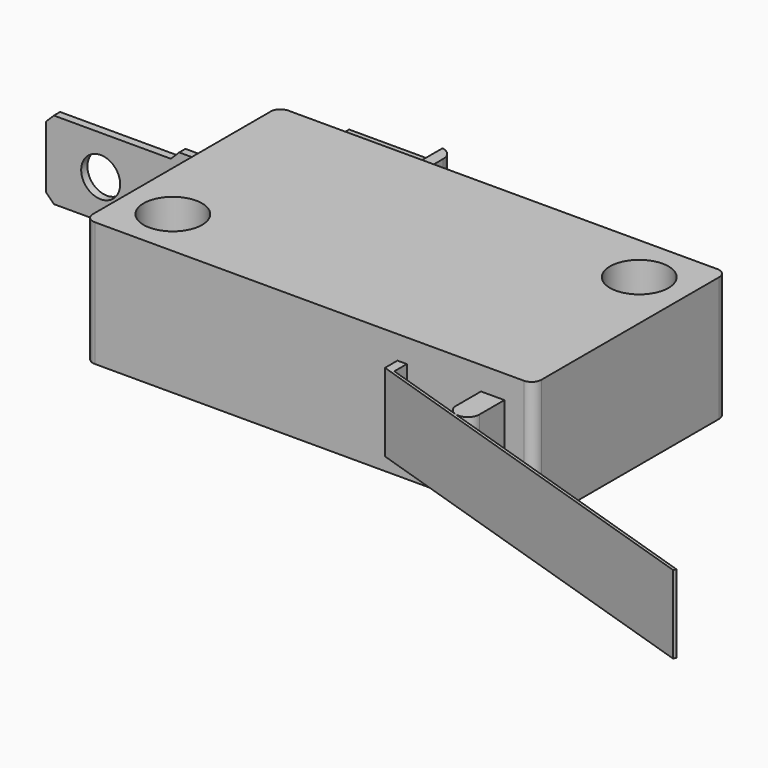
from build123d import *

# Parameters (mm, degrees)
F0_R      = 3.75
F1_DEPTH  = 16
F3_START  = -20
F2_R      = 2.5
F3_DEPTH  = 1
F4_SIZE   = 1
F5_SIZE   = 1
F6_W      = 1.5
F6_H      = 12.4
F7_DEPTH  = 5
F8_W      = 12.5
F8_H      = 8.8
F8_R      = 2.5
F9_DEPTH  = 1
F10_R     = 1.8
F11_SIZE  = 1
F12_SIZE  = 1.5
F14_START = -3
F14_DEPTH = 10
F13_W     = 1.2
F13_H     = 2


with BuildPart() as f1:
    # F0 (on Top) → F1 (new body)
    with BuildSketch(Plane.XY):
        with BuildLine():
            ThreePointArc((2.5, -1.25), (2.1338834765, -0.3661165235), (1.25, 0))
            ThreePointArc((1.25, 0), (0.3661165235, -0.3661165235), (0, -1.25))
            ThreePointArc((0, -1.25), (1.25, -2.5), (2.5, -1.25))
        make_face()
        with BuildLine():
            ThreePointArc((2.5, -29.75), (1.25, -28.5), (0, -29.75))
            ThreePointArc((0, -29.75), (0.3661165235, -30.6338834765), (1.25, -31))
            ThreePointArc((1.25, -31), (2.1338834765, -30.6338834765), (2.5, -29.75))
        make_face()
        with BuildLine():
            ThreePointArc((56.25, -31), (57.1338834765, -30.6338834765), (57.5, -29.75))
            ThreePointArc((57.5, -29.75), (55.3661165235, -28.8661165235), (56.25, -31))
        make_face()
        with BuildLine():
            ThreePointArc((57.5, -1.25), (57.1338834765, -0.3661165235), (56.25, 0))
            ThreePointArc((56.25, 0), (55.3661165235, -2.1338834765), (57.5, -1.25))
        make_face()
        with BuildLine():
            Line((56.25, 0), (1.25, 0))
            ThreePointArc((1.25, 0), (2.1338834765, -0.3661165235), (2.5, -1.25))
            ThreePointArc((2.5, -1.25), (1.25, -2.5), (0, -1.25))
            Line((0, -1.25), (0, -29.75))
            ThreePointArc((0, -29.75), (1.25, -28.5), (2.5, -29.75))
            ThreePointArc((2.5, -29.75), (2.1338834765, -30.6338834765), (1.25, -31))
            Line((1.25, -31), (56.25, -31))
            ThreePointArc((56.25, -31), (55.3661165235, -28.8661165235), (57.5, -29.75))
            Line((57.5, -29.75), (57.5, -1.25))
            ThreePointArc((57.5, -1.25), (55.3661165235, -2.1338834765), (56.25, 0))
        make_face()
        with Locations((6.25, -24.75)):
            Circle(F0_R, mode=Mode.SUBTRACT)
        with Locations((51.25, -6.25)):
            Circle(F0_R, mode=Mode.SUBTRACT)
    extrude(amount=F1_DEPTH)

    # F2 (on face) → F3 (join)
    with BuildSketch(Plane.XZ.offset(31).offset(F3_START)):
        Polygon((0, 1.9393398282), (0, 3), (-5, 3), (-3.9393398282, 1.9393398282), align=None)
        Polygon((-5, 3), (0, 3), (0, 13), (-5, 13), (-21, 13), (-21, 3), align=None)
        with Locations((-14, 8)):
            Circle(F2_R, mode=Mode.SUBTRACT)
        Polygon((-5, 13), (0, 13), (0, 14.0606601718), (-3.9393398282, 14.0606601718), align=None)
    extrude(amount=-F3_DEPTH)

    # F4
    f4_edges = [f1.edges().sort_by_distance(p)[0] for p in [
        (-21, -10.5, 13),
    ]]
    chamfer(f4_edges, length=F4_SIZE)

    # F5
    f5_edges = [f1.edges().sort_by_distance(p)[0] for p in [
        (-21, -10.5, 3),
    ]]
    chamfer(f5_edges, length=F5_SIZE)

    # F6 (on face) → F7 (join)
    with BuildSketch(Plane(origin=(0, 0, 0), x_dir=(-1, 0, 0), z_dir=(0, 1, 0))):
        with Locations((-17, 8)):
            Rectangle(F6_W, F6_H)
    extrude(amount=F7_DEPTH)

    # F8 (on face) → F9 (join)
    with BuildSketch(Plane(origin=(0, 5, 0), x_dir=(-1, 0, 0), z_dir=(0, 1, 0))):
        Polygon((-15.25, 14.2), (-17.75, 14.2), (-17.75, 1.8), (-15.25, 1.8), (-15.25, 3.6), (-15.25, 12.4), align=None)
        with Locations((-9, 8)):
            Rectangle(F8_W, F8_H)
        with Locations((-9, 8)):
            Circle(F8_R, mode=Mode.SUBTRACT)
    extrude(amount=F9_DEPTH)

    # F10
    f10_edges = [f1.edges().sort_by_distance(p)[0] for p in [
        (17.75, 6, 8),
    ]]
    fillet(f10_edges, radius=F10_R)

    # F11
    f11_edges = [f1.edges().sort_by_distance(p)[0] for p in [
        (15.25, 5.5, 1.8),
        (15.25, 5.5, 14.2),
    ]]
    chamfer(f11_edges, length=F11_SIZE)

    # F12
    f12_edges = [f1.edges().sort_by_distance(p)[0] for p in [
        (2.75, 5.5, 3.6),
        (2.75, 5.5, 12.4),
    ]]
    chamfer(f12_edges, length=F12_SIZE)


with BuildPart() as f14:
    # F13 (on face) → F14 (new body)
    with BuildSketch(Plane.XY.offset(16).offset(F14_START)):
        with BuildLine():
            ThreePointArc((50.7594690406, -35), (51.0459435369, -35.8816778617), (51.7959435096, -36.4265847616))
            ThreePointArc((51.7959435096, -36.4265847616), (53.1411469023, -36.2135255037), (53.7594690406, -35))
            Line((53.7594690406, -35), (50.7594690406, -35))
        make_face()
        with BuildLine():
            ThreePointArc((53.7594690406, -35), (52.2594690406, -33.5), (50.7594690406, -35))
            Line((50.7594690406, -35), (53.7594690406, -35))
        make_face()
        with BuildLine():
            Line((50.7594690406, -31), (50.7594690406, -35))
            ThreePointArc((50.7594690406, -35), (52.2594690406, -33.5), (53.7594690406, -35))
            Line((53.7594690406, -35), (53.7594690406, -31))
            Line((53.7594690406, -31), (50.7594690406, -31))
        make_face()
    extrude(amount=-F14_DEPTH)


with BuildPart() as f14b:
    # F13 (on face) → F14, piece 2 (new body)
    with BuildSketch(Plane.XY.offset(16).offset(F14_START)):
        with Locations((40.65, -32)):
            Rectangle(F13_W, F13_H)
        Polygon((41.25, -33), (40.05, -33), (89.9804671055, -49.2233922047), (90.0950569089, -48.8707210533), (51.7959435096, -36.4265847616), align=None)
    extrude(amount=-F14_DEPTH)


solid = Compound([f1.part, f14.part, f14b.part])
